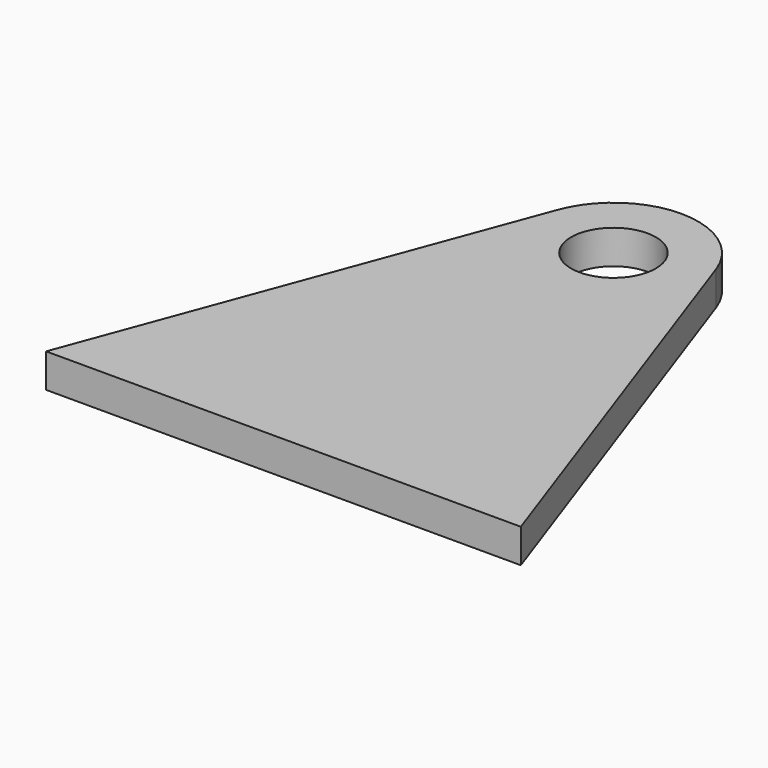
from build123d import *

# Parameters (mm, degrees)
F0_R     = 25
F1_DEPTH = 20


with BuildPart() as f1:
    # F0 (on Top) → F1 (new body)
    with BuildSketch(Plane.XY):
        with BuildLine():
            Line((46.86198, 257.4343), (47.462649, 255.725678))
            ThreePointArc((47.462649, 255.725678), (47.170051, 256.582709), (46.86198, 257.4343))
        make_face()
        with BuildLine():
            Line((137.363432, 0), (47.462649, 255.725678))
            Line((47.462649, 255.725678), (46.86198, 257.4343))
            ThreePointArc((46.86198, 257.4343), (0, 290), (-46.86198, 257.4343))
            Line((-46.86198, 257.4343), (-142.636568, 0))
            Line((-142.636568, 0), (137.363432, 0))
        make_face()
        with Locations((0, 240)):
            Circle(F0_R, mode=Mode.SUBTRACT)
    extrude(amount=F1_DEPTH)


solid = f1.part
